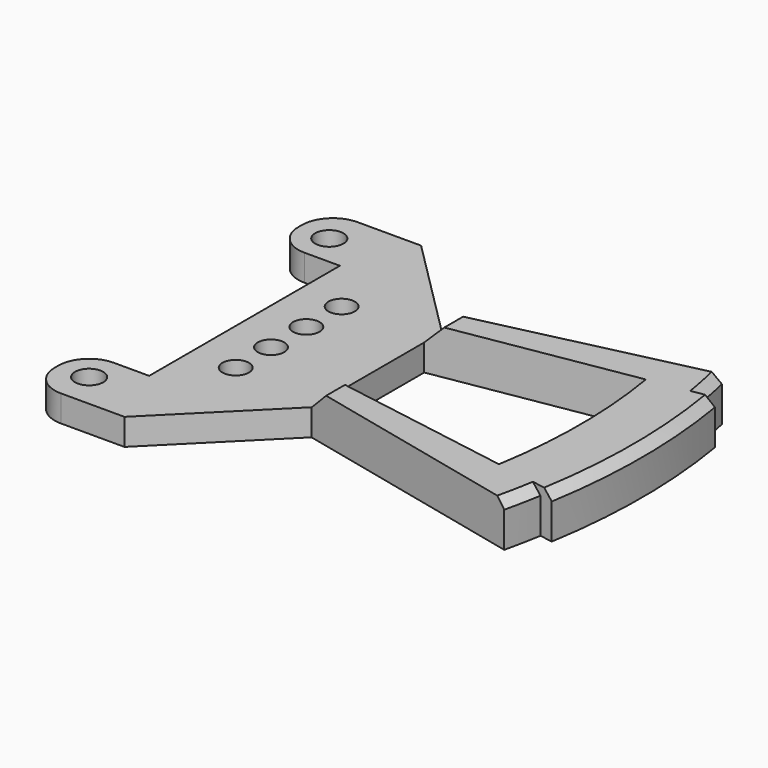
from build123d import *

# Parameters (mm, degrees)
CYLINDER_R        = 1.6
CYLINDER_DEPTH    = 10
BOX001_W          = 7.5
BOX001_H          = 7.5
BOX001_DEPTH      = 3
FILLET002_R       = 3.5
FILLET003_R       = 3.5
CYLINDER005_R     = 1.5
CYLINDER005_DEPTH = 10
CYLINDER004_R     = 1.5
CYLINDER004_DEPTH = 10
CYLINDER003_R     = 1.5
CYLINDER003_DEPTH = 10
CYLINDER002_R     = 1.5
CYLINDER002_DEPTH = 10
BOX_W             = 15
BOX_H             = 42
BOX_DEPTH         = 3
CHAMFER005_SIZE   = 11.8
CHAMFER006_SIZE   = 11.8
PAD_DEPTH         = 5
CHAMFER_SIZE      = 1
CHAMFER001_SIZE   = 1
CHAMFER002_SIZE   = 1
CHAMFER003_SIZE   = 2
CHAMFER004_SIZE   = 2
CYLINDER001_R     = 1.6
CYLINDER001_DEPTH = 10
BOX002_W          = 7.5
BOX002_H          = 7.5
BOX002_DEPTH      = 3
FILLET_R          = 3.5
FILLET001_R       = 3.5


with BuildPart() as cylinder:
    # Cylinder → Cylinder (new body)
    with BuildSketch(Plane(origin=(-4, 4, 0), x_dir=(1, 0, 0), z_dir=(0, 0, 1))):
        Circle(CYLINDER_R)
    extrude(amount=CYLINDER_DEPTH)


with BuildPart() as cut001:
    # Box001 → Box001 (new body)
    with BuildSketch(Plane(origin=(-7.5, 0, 0), x_dir=(1, 0, 0), z_dir=(0, 0, 1))):
        with Locations((3.75, 3.75)):
            Rectangle(BOX001_W, BOX001_H)
    extrude(amount=BOX001_DEPTH)

    # Fillet002
    fillet002_edges = [cut001.edges().sort_by_distance(p)[0] for p in [
        (-7.5, 7.5, 1.5),
    ]]
    fillet(fillet002_edges, radius=FILLET002_R)

    # Fillet003
    fillet003_edges = [cut001.edges().sort_by_distance(p)[0] for p in [
        (-7.5, 0, 1.5),
    ]]
    fillet(fillet003_edges, radius=FILLET003_R)

    # Cut001: cut Cylinder
    add(cylinder.part, mode=Mode.SUBTRACT)


with BuildPart() as cylinder005:
    # Cylinder005 → Cylinder005 (new body)
    with BuildSketch(Plane(origin=(5, 18.5, 0), x_dir=(1, 0, 0), z_dir=(0, 0, 1))):
        Circle(CYLINDER005_R)
    extrude(amount=CYLINDER005_DEPTH)


with BuildPart() as cylinder004:
    # Cylinder004 → Cylinder004 (new body)
    with BuildSketch(Plane(origin=(5, 23.5, 0), x_dir=(1, 0, 0), z_dir=(0, 0, 1))):
        Circle(CYLINDER004_R)
    extrude(amount=CYLINDER004_DEPTH)


with BuildPart() as cylinder003:
    # Cylinder003 → Cylinder003 (new body)
    with BuildSketch(Plane(origin=(5, 28.5, 0), x_dir=(1, 0, 0), z_dir=(0, 0, 1))):
        Circle(CYLINDER003_R)
    extrude(amount=CYLINDER003_DEPTH)


with BuildPart() as cylinder002:
    # Cylinder002 → Cylinder002 (new body)
    with BuildSketch(Plane(origin=(5, 13.5, 0), x_dir=(1, 0, 0), z_dir=(0, 0, 1))):
        Circle(CYLINDER002_R)
    extrude(amount=CYLINDER002_DEPTH)


with BuildPart() as cut005:
    # Box → Box (new body)
    with BuildSketch(Plane.XY):
        with Locations((7.5, 21)):
            Rectangle(BOX_W, BOX_H)
    extrude(amount=BOX_DEPTH)

    # Chamfer005
    chamfer005_edges = [cut005.edges().sort_by_distance(p)[0] for p in [
        (15, 42, 1.5),
    ]]
    chamfer(chamfer005_edges, length=CHAMFER005_SIZE)

    # Chamfer006
    chamfer006_edges = [cut005.edges().sort_by_distance(p)[0] for p in [
        (15, 0, 1.5),
    ]]
    chamfer(chamfer006_edges, length=CHAMFER006_SIZE)

    # Cut002: cut Cylinder002
    add(cylinder002.part, mode=Mode.SUBTRACT)

    # Cut003: cut Cylinder003
    add(cylinder003.part, mode=Mode.SUBTRACT)

    # Cut004: cut Cylinder004
    add(cylinder004.part, mode=Mode.SUBTRACT)

    # Cut005: cut Cylinder005
    add(cylinder005.part, mode=Mode.SUBTRACT)


with BuildPart() as chamfer004:
    # Sketch → Pad (new body)
    with BuildSketch(Plane(origin=(-25, 21, 0), x_dir=(1, 0, 0), z_dir=(0, 0, 1))):
        with BuildLine():
            ThreePointArc((66.744349, -15.409147), (67.183792, -13.363687), (67.560564, -11.305761))
            Line((67.560564, -11.305761), (69.039992, -11.553332))
            ThreePointArc((69.039992, -11.553332), (70, 0), (69.039992, 11.553332))
            Line((67.560564, 11.305761), (69.039992, 11.553332))
            ThreePointArc((67.560564, 11.305761), (67.183792, 13.363687), (66.744349, 15.409147))
            Line((40, 9.234728), (66.744349, 15.409147))
            Line((40, 9.234728), (40, 6.693704))
            Line((40, 6.693704), (62.135993, 10.397999))
            ThreePointArc((62.135993, -10.397999), (63, 0), (62.135993, 10.397999))
            Line((40, -6.693704), (62.135993, -10.397999))
            Line((40, -6.693704), (40, -9.234728))
            Line((40, -9.234728), (66.744349, -15.409147))
        make_face()
    extrude(amount=PAD_DEPTH)

    # Chamfer
    chamfer_edges = [chamfer004.edges().sort_by_distance(p)[0] for p in [
        (42.183792, 34.363687, 5),
    ]]
    chamfer(chamfer_edges, length=CHAMFER_SIZE)

    # Chamfer001
    chamfer001_edges = [chamfer004.edges().sort_by_distance(p)[0] for p in [
        (45, 21, 5),
    ]]
    chamfer(chamfer001_edges, length=CHAMFER001_SIZE)

    # Chamfer002
    chamfer002_edges = [chamfer004.edges().sort_by_distance(p)[0] for p in [
        (42.183792, 7.636313, 5),
    ]]
    chamfer(chamfer002_edges, length=CHAMFER002_SIZE)

    # Chamfer003
    chamfer003_edges = [chamfer004.edges().sort_by_distance(p)[0] for p in [
        (15, 28.964216, 5),
    ]]
    chamfer(chamfer003_edges, length=CHAMFER003_SIZE)

    # Chamfer004
    chamfer004_edges = [chamfer004.edges().sort_by_distance(p)[0] for p in [
        (15, 13.035784, 5),
    ]]
    chamfer(chamfer004_edges, length=CHAMFER004_SIZE)


with BuildPart() as cylinder001:
    # Cylinder001 → Cylinder001 (new body)
    with BuildSketch(Plane(origin=(-4, 38, 0), x_dir=(1, 0, 0), z_dir=(0, 0, 1))):
        Circle(CYLINDER001_R)
    extrude(amount=CYLINDER001_DEPTH)


with BuildPart() as fusion:
    # Box002 → Box002 (new body)
    with BuildSketch(Plane(origin=(-7.5, 34.5, 0), x_dir=(1, 0, 0), z_dir=(0, 0, 1))):
        with Locations((3.75, 3.75)):
            Rectangle(BOX002_W, BOX002_H)
    extrude(amount=BOX002_DEPTH)

    # Fillet
    fillet_edges = [fusion.edges().sort_by_distance(p)[0] for p in [
        (-7.5, 34.5, 1.5),
    ]]
    fillet(fillet_edges, radius=FILLET_R)

    # Fillet001
    fillet001_edges = [fusion.edges().sort_by_distance(p)[0] for p in [
        (-7.5, 42, 1.5),
    ]]
    fillet(fillet001_edges, radius=FILLET001_R)

    # Cut: cut Cylinder001
    add(cylinder001.part, mode=Mode.SUBTRACT)

    # Fusion: union Cut001, Cut005, Chamfer004
    add(cut001.part)
    add(cut005.part)
    add(chamfer004.part)


solid = fusion.part
